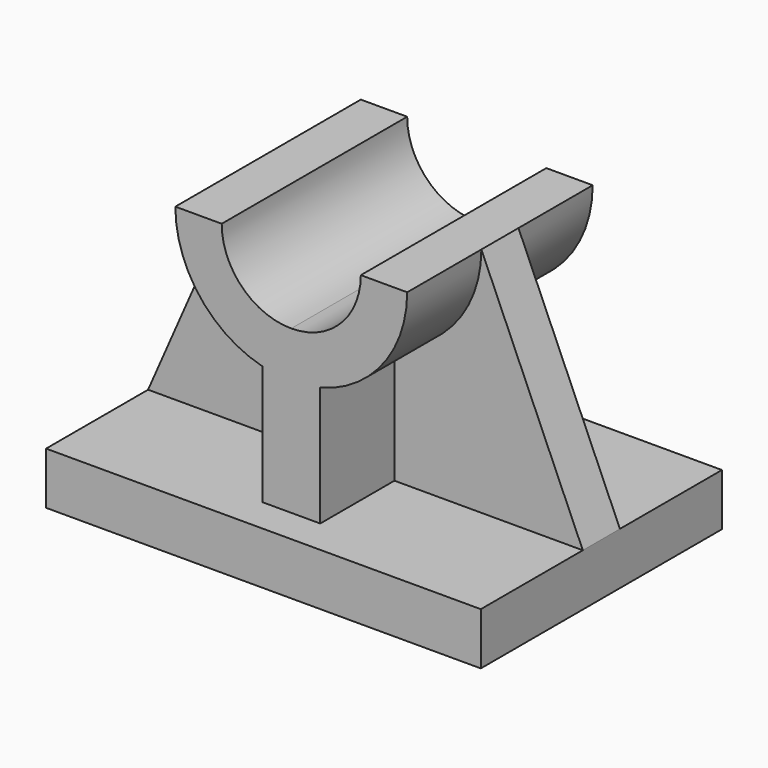
from build123d import *

# Parameters (mm, degrees)
F1_DEPTH = 26
F2_DEPTH = 20
F3_DEPTH = 4


with BuildPart() as f1:
    # F0 (on Front) → F1 (new body, symmetric)
    with BuildSketch(Plane.XZ):
        Polygon((-37.5, 0), (0, 0), (0, 9), (-5, 9), (-37.5, 9), align=None)
        Polygon((0, 9), (0, 0), (37.5, 0), (37.5, 9), (5, 9), align=None)
    extrude(amount=F1_DEPTH, both=True)

    # F0 (on Front) → F2 (join, symmetric)
    with BuildSketch(Plane.XZ):
        with BuildLine():
            Line((-5, 9), (0, 9))
            Line((0, 9), (0, 33.611993))
            Line((0, 33.611993), (0, 37))
            ThreePointArc((0, 37), (-8.485281, 40.514719), (-12, 49))
            Line((-12, 49), (-20, 49))
            ThreePointArc((-20, 49), (-15.811388, 36.752551), (-5, 29.635083))
            Line((-5, 29.635083), (-5, 9))
        make_face()
        with BuildLine():
            Line((0, 33.611993), (0, 9))
            Line((0, 9), (5, 9))
            Line((5, 9), (5, 29.635083))
            ThreePointArc((5, 29.635083), (15.811388, 36.752551), (20, 49))
            Line((20, 49), (12, 49))
            ThreePointArc((12, 49), (8.485281, 40.514719), (0, 37))
            Line((0, 37), (0, 33.611993))
        make_face()
    extrude(amount=F2_DEPTH, both=True)

    # F0 (on Front) → F3 (join, symmetric)
    with BuildSketch(Plane.XZ):
        with BuildLine():
            Line((-37.5, 9), (-5, 9))
            Line((-5, 9), (-5, 29.635083))
            ThreePointArc((-5, 29.635083), (-15.811388, 36.752551), (-20, 49))
            Line((-20, 49), (-37.5, 9))
        make_face()
        with BuildLine():
            Line((5, 9), (37.5, 9))
            Line((37.5, 9), (20, 49))
            ThreePointArc((20, 49), (15.811388, 36.752551), (5, 29.635083))
            Line((5, 29.635083), (5, 9))
        make_face()
    extrude(amount=F3_DEPTH, both=True)


solid = f1.part
